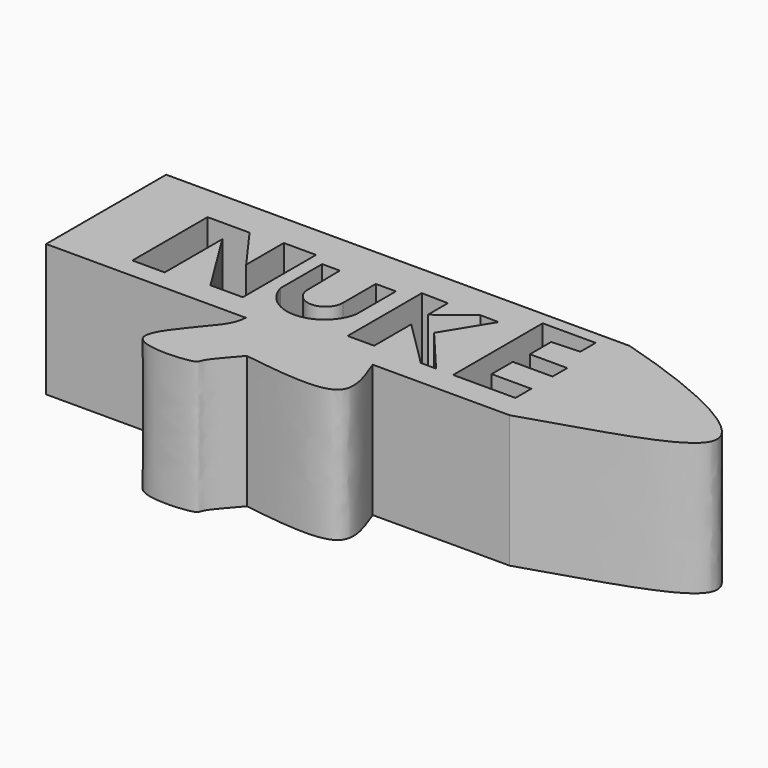
from build123d import *

# Parameters (mm, degrees)
F1_DEPTH = 25.4


with BuildPart() as f1:
    # F0 (on Top) → F1 (new body)
    with BuildSketch(Plane.XY):
        Polygon((61.3081902266, 23.8699343331), (-27.5918097734, 23.8699343331), (-27.5918097734, -4.9215289764), (10.7099656016, -4.9215289764), (22.7065868676, -4.9215289764), (27.98005566, -4.9215289764), (35.0572243333, -4.9215289764), (61.3081902266, -4.9215289764), align=None)
        Polygon((-14.1530148685, -1.0232002242), (-14.1530148685, 16.9856958091), (-6.096236205, 16.9856958091), (0, 8.5659530014), (0, 17.5704024732), (6.1946995556, 17.5704024732), (6.1946995556, 0), (0, 0), (-7.9551488161, 12.7758244053), (-7.9551488161, -1.0232002242), align=None, mode=Mode.SUBTRACT)
        with BuildLine():
            Line((8.7673990056, 5.8763120323), (8.7673990056, 15.8162862062))
            Line((8.7673990056, 15.8162862062), (12.1586844325, 15.8162862062))
            Line((12.1586844325, 15.8162862062), (12.2756250203, 7.9812481999))
            ThreePointArc((12.2756250203, 7.9812481999), (15.6669113785, 4.5899618417), (19.0581977367, 7.9812481999))
            Line((19.0581977367, 7.9812481999), (19.0581977367, 15.8162862062))
            Line((19.0581977367, 15.8162862062), (22.917246446, 15.8162862062))
            Line((22.917246446, 15.8162862062), (22.917246446, 6.3440757804))
            ThreePointArc((22.917246446, 6.3440757804), (16.0319130947, 0.3750876542), (8.7673990056, 5.8763120323))
        make_face(mode=Mode.SUBTRACT)
        Polygon((26.3085328043, 0), (26.3085328043, 17.78), (31.3885328043, 17.687343061), (31.3885328043, 12.8883253783), (37.6501604915, 17.687343061), (41.1511511842, 17.6234865489), (35.7807427645, 8.89), (43.2649627328, 0), (40.3414405882, 0), (31.3885328043, 8.89), (31.3885328043, 0), align=None, mode=Mode.SUBTRACT)
        Polygon((46.5532865412, 0), (46.5532865412, 17.78), (46.5532865412, 21.4527621865), (56.7132865412, 21.4527621865), (56.7132865412, 17.78), (51.3310395181, 17.5038692224), (51.3310395181, 12.4238692224), (58.4912865412, 12.4238692224), (58.4912865412, 8.89), (50.8712865412, 8.89), (50.8712865412, 3.81), (58.4912865412, 3.81), (58.4912865412, 0), align=None, mode=Mode.SUBTRACT)
        with BuildLine():
            Line((22.7065868676, -4.9215289764), (10.7099656016, -4.9215289764))
            add(Edge.make_bspline(
                [(10.7099656016, -4.9215289764), (10.6193824093, -5.9540183854), (10.3691572488, -8.8061460444), (-4.0064786059, -22.4262125693), (14.5478922895, -21.3302918169), (13.8788002341, -19.6678081158), (16.7935759894, -16.5638196867), (18.5483734178, -14.4732059457)],
                knots=[0, 0, 0, 0, 0.1275663935, 0.3523868003, 0.5591793191, 0.6348281925, 0.766787961, 0.766787961, 0.766787961, 0.766787961], degree=3))
            add(Edge.make_bspline(
                [(18.5483734178, -14.4732059457), (19.5929353174, -13.2287458017), (20.6028126804, -11.942593457), (21.2804134935, -10.7834627852)],
                knots=[0.766787961, 0.766787961, 0.766787961, 0.766787961, 0.8453384217, 0.8453384217, 0.8453384217, 0.8453384217], degree=3))
            add(Edge.make_bspline(
                [(21.2804134935, -10.7834627852), (22.6145725842, -8.5011976326), (22.6605797259, -6.7113633045), (22.7065868676, -4.9215289764)],
                knots=[0.8453384217, 0.8453384217, 0.8453384217, 0.8453384217, 1, 1, 1, 1], degree=3))
        make_face()
        with BuildLine():
            add(Edge.make_bspline(
                [(35.0572243333, -4.9215289764), (36.492752785, -8.6443748601), (39.9084026407, -17.5032133845), (26.390405815, -15.5876277523), (18.5483734178, -14.4732059457)],
                knots=[0, 0, 0, 0, 0.4201213725, 1, 1, 1, 1], degree=3))
            Line((35.0572243333, -4.9215289764), (27.98005566, -4.9215289764))
            add(Edge.make_bspline(
                [(27.98005566, -4.9215289764), (30.7410595657, -6.8420870025), (39.2308106357, -11.5408062277), (26.8989952366, -10.9269528966), (21.2804134935, -10.7834627852)],
                knots=[0, 0, 0, 0, 0.4400287118, 1, 1, 1, 1], degree=3))
            add(Edge.make_bspline(
                [(18.5483734178, -14.4732059457), (19.5929353174, -13.2287458017), (20.6028126804, -11.942593457), (21.2804134935, -10.7834627852)],
                knots=[0.766787961, 0.766787961, 0.766787961, 0.766787961, 0.8453384217, 0.8453384217, 0.8453384217, 0.8453384217], degree=3))
        make_face()
        with BuildLine():
            Line((27.98005566, -4.9215289764), (22.7065868676, -4.9215289764))
            add(Edge.make_bspline(
                [(21.2804134935, -10.7834627852), (22.6145725842, -8.5011976326), (22.6605797259, -6.7113633045), (22.7065868676, -4.9215289764)],
                knots=[0.8453384217, 0.8453384217, 0.8453384217, 0.8453384217, 1, 1, 1, 1], degree=3))
            add(Edge.make_bspline(
                [(27.98005566, -4.9215289764), (30.7410595657, -6.8420870025), (39.2308106357, -11.5408062277), (26.8989952366, -10.9269528966), (21.2804134935, -10.7834627852)],
                knots=[0, 0, 0, 0, 0.4400287118, 1, 1, 1, 1], degree=3))
        make_face()
        with BuildLine():
            add(Edge.make_bspline(
                [(61.3081902266, 23.8699343331), (75.0712619521, 19.8415075043), (105.9627124303, 7.1334485632), (74.8250609301, -0.4875464163), (61.3081902266, -4.9215289764)],
                knots=[0, 0, 0, 0, 0.5039074214, 1, 1, 1, 1], degree=3))
            Line((61.3081902266, 23.8699343331), (61.3081902266, -4.9215289764))
        make_face()
    extrude(amount=F1_DEPTH)


solid = f1.part
